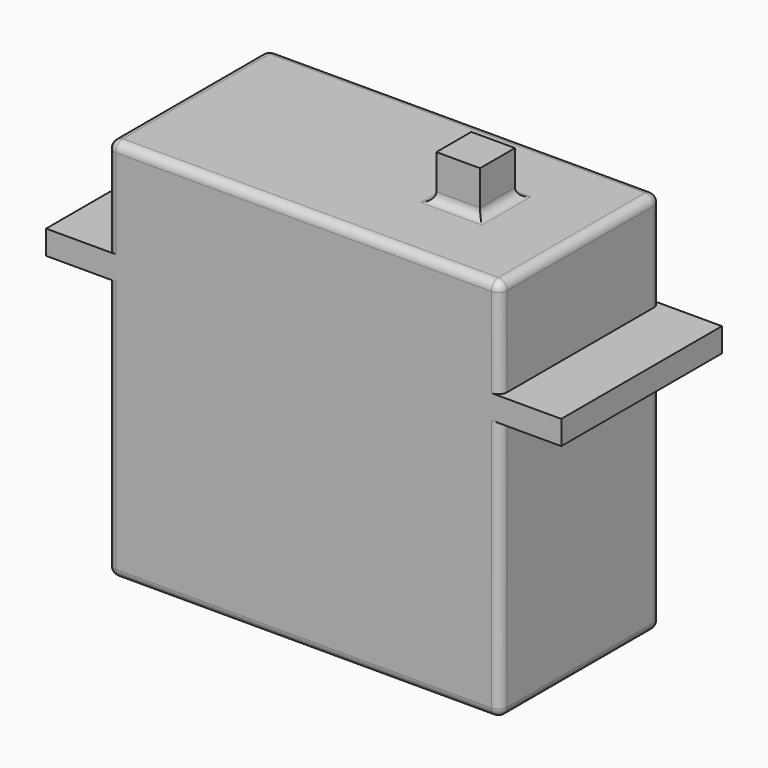
from build123d import *

# Parameters (mm, degrees)
F0_W     = 45
F0_H     = 44
F1_DEPTH = 23
F2_W     = 5
F2_H     = 5
F3_DEPTH = 5
F5_W     = 59
F5_H     = 23
F6_DEPTH = 2.75
F7_R     = 1


with BuildPart() as f1:
    # F0 (on Front) → F1 (new body)
    with BuildSketch(Plane.XZ):
        with Locations((22.5, 22)):
            Rectangle(F0_W, F0_H)
    extrude(amount=F1_DEPTH)

    # F2 (on face) → F3 (join)
    with BuildSketch(Plane.XY.offset(44)):
        with Locations((33, -11.5)):
            Rectangle(F2_W, F2_H)
    extrude(amount=F3_DEPTH)

    # F5 (on offset) → F6 (join)
    with BuildSketch(Plane.XY.offset(30)):
        with Locations((22.5, -11.5)):
            Rectangle(F5_W, F5_H)
    extrude(amount=F6_DEPTH)

    # F7
    f7_edges = [f1.edges().sort_by_distance(p)[0] for p in [
        (45, -11.5, 44),
        (22.5, 0, 44),
        (22.5, -23, 44),
        (0, -11.5, 44),
        (33, -9, 44),
        (35.5, -11.5, 44),
        (33, -14, 44),
        (30.5, -11.5, 44),
        (0, -11.5, 0),
        (45, -11.5, 0),
        (22.5, 0, 0),
        (22.5, -23, 0),
        (45, -23, 15),
        (45, 0, 15),
        (0, -23, 15),
        (0, -23, 38.375),
        (45, -23, 38.375),
        (45, 0, 38.375),
        (0, 0, 38.375),
        (0, 0, 15),
    ]]
    fillet(f7_edges, radius=F7_R)


solid = f1.part
